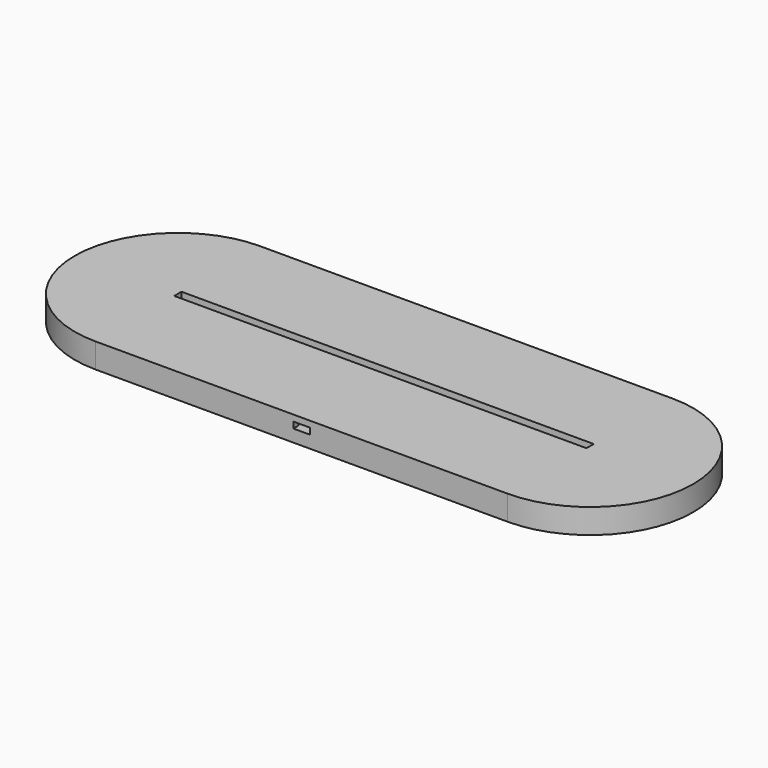
from build123d import *

# Parameters (mm, degrees)
PAD_DEPTH       = 3
PAD001_DEPTH    = 3
SKETCH002_W     = 209.08447
SKETCH002_H     = 4.18
PAD002_DEPTH    = 3
SKETCH003_W     = 26.3
SKETCH003_H     = 34.2
POCKET_DEPTH    = 3
SKETCH004_W     = 18
SKETCH004_H     = 25
POCKET001_DEPTH = 3
SKETCH005_W     = 14
SKETCH005_H     = 5
POCKET002_DEPTH = 6
SKETCH006_W     = 14
SKETCH006_H     = 3
POCKET003_DEPTH = 3
SKETCH007_W     = 8
SKETCH007_H     = 3
POCKET004_DEPTH = 3
SKETCH008_W     = 200
SKETCH008_H     = 4.4
PAD003_DEPTH    = 3
SKETCH009_R     = 0.8
POCKET005_DEPTH = 9


with BuildPart() as part:
    # Sketch → Pad (new body)
    with BuildSketch(Plane.XY):
        with BuildLine():
            ThreePointArc((-100, 50), (-150, 0), (-100, -50))
            Line((-100, -50), (100, -50))
            ThreePointArc((100, -50), (150, 0), (100, 50))
            Line((-100, 50), (100, 50))
        make_face()
    extrude(amount=PAD_DEPTH)

    # Sketch001 (on Face6 of Pad) → Pad001 (join)
    with BuildSketch(Plane.XY.offset(3)):
        with BuildLine():
            ThreePointArc((-100, 50), (-150, 0), (-100, -50))
            Line((-100, -50), (100, -50))
            ThreePointArc((100, -50), (150, 0), (100, 50))
            Line((-100, 50), (100, 50))
        make_face()
        with BuildLine():
            ThreePointArc((-100, 5), (-105, 0), (-100, -5))
            Line((-100, -5), (100, -5))
            ThreePointArc((100, -5), (105, 0), (100, 5))
            Line((-100, 5), (100, 5))
        make_face(mode=Mode.SUBTRACT)
    extrude(amount=PAD001_DEPTH)

    # Sketch002 (on Face9 of Pad001) → Pad002 (join)
    with BuildSketch(Plane.XY.offset(6)):
        with BuildLine():
            ThreePointArc((-100, 50), (-150, 0), (-100, -50))
            Line((-100, -50), (100, -50))
            ThreePointArc((100, -50), (150, 0), (100, 50))
            Line((-100, 50), (100, 50))
        make_face()
        Rectangle(SKETCH002_W, SKETCH002_H, mode=Mode.SUBTRACT)
    extrude(amount=PAD002_DEPTH)

    # Sketch003 (on Face13 of Pad002) → Pocket (cut)
    with BuildSketch(Plane.XY.offset(9)):
        with Locations((0, -29.9)):
            Rectangle(SKETCH003_W, SKETCH003_H)
    extrude(amount=-POCKET_DEPTH, mode=Mode.SUBTRACT)

    # Sketch004 (on Face27 of Pocket) → Pocket001 (cut)
    with BuildSketch(Plane.XY.offset(6)):
        with Locations((0, -25.3)):
            Rectangle(SKETCH004_W, SKETCH004_H)
    extrude(amount=-POCKET001_DEPTH, mode=Mode.SUBTRACT)

    # Sketch005 (on Face13 of Pocket001) → Pocket002 (cut)
    with BuildSketch(Plane.XY.offset(9)):
        with Locations((0, -10.3)):
            Rectangle(SKETCH005_W, SKETCH005_H)
    extrude(amount=-POCKET002_DEPTH, mode=Mode.SUBTRACT)

    # Sketch006 (on Face23 of Pocket002) → Pocket003 (cut)
    with BuildSketch(Plane.XZ.offset(7.8)):
        with Locations((0, 4.5)):
            Rectangle(SKETCH006_W, SKETCH006_H)
    extrude(amount=-POCKET003_DEPTH, mode=Mode.SUBTRACT)

    # Sketch007 (on Face13 of Pocket003) → Pocket004 (cut)
    with BuildSketch(Plane.XY.offset(9)):
        with Locations((0, -48.5)):
            Rectangle(SKETCH007_W, SKETCH007_H)
    extrude(amount=-POCKET004_DEPTH, mode=Mode.SUBTRACT)

    # Sketch008 (on Face15 of Pocket004) → Pad003 (join)
    with BuildSketch(Plane.XY.offset(9)):
        with BuildLine():
            ThreePointArc((-100, 50), (-150, 0), (-100, -50))
            Line((-100, -50), (100, -50))
            ThreePointArc((100, -50), (150, 0), (100, 50))
            Line((-100, 50), (100, 50))
        make_face()
        Rectangle(SKETCH008_W, SKETCH008_H, mode=Mode.SUBTRACT)
    extrude(amount=PAD003_DEPTH)

    # Sketch009 (on Face4 of Pad003) → Pocket005 (cut)
    with BuildSketch(Plane(origin=(0, 0, 0), x_dir=(1, 0, 0), z_dir=(0, 0, -1))):
        with Locations((-95, 35)):
            Circle(SKETCH009_R)
        with Locations((-95, -35)):
            Circle(SKETCH009_R)
    pocket005 = extrude(amount=-POCKET005_DEPTH, mode=Mode.SUBTRACT)

    # Mirrored: Pocket005 across Sketch009 V_Axis
    add(pocket005.mirror(Plane(origin=(0, 0, 0), x_dir=(0, 0, -1), z_dir=(1, 0, 0))), mode=Mode.SUBTRACT)


solid = part.part
